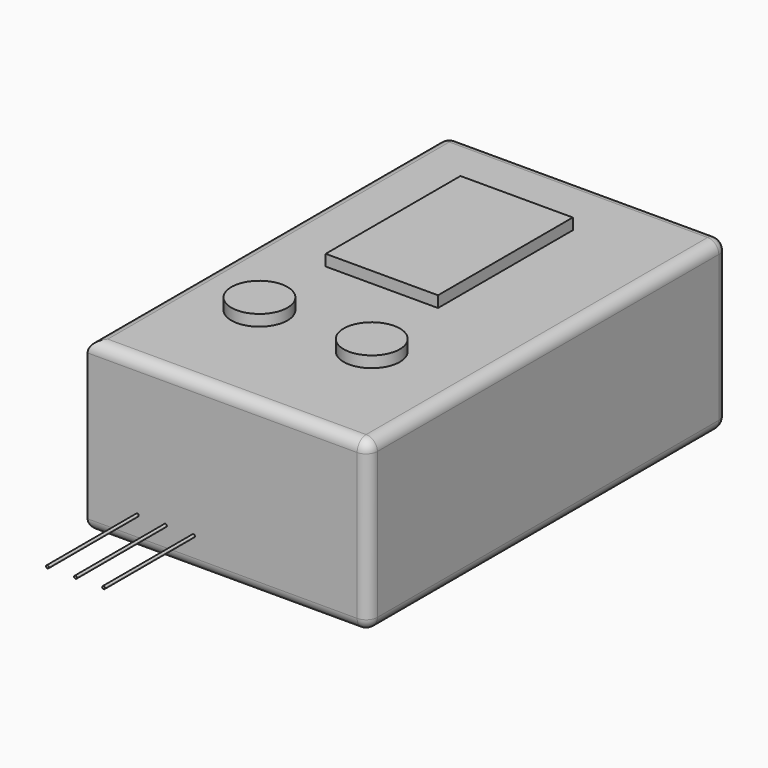
from build123d import *

# Parameters (mm, degrees)
F0_W     = 127
F0_H     = 76.2
F1_DEPTH = 203.2
F2_R     = 5.08
F3_R     = 0.635
F4_DEPTH = 50.8
F5_W     = 50.8
F5_H     = 76.2
F5_R     = 12.7
F6_DEPTH = 5.08


with BuildPart() as f1:
    # F0 (on Front) → F1 (new body)
    with BuildSketch(Plane.XZ):
        with Locations((63.5, 38.1)):
            Rectangle(F0_W, F0_H)
    extrude(amount=F1_DEPTH)

    # F2
    f2_edges = [f1.edges().sort_by_distance(p)[0] for p in [
        (63.5, -203.2, 76.2),
        (127, -101.6, 76.2),
        (127, -203.2, 38.1),
        (127, 0, 38.1),
        (127, -101.6, 0),
        (63.5, -203.2, 0),
        (63.5, 0, 0),
        (0, 0, 38.1),
        (0, -101.6, 0),
        (0, -101.6, 76.2),
        (63.5, 0, 76.2),
    ]]
    fillet(f2_edges, radius=F2_R)

    # F3 (on face) → F4 (join)
    with BuildSketch(Plane.XZ.offset(203.2)):
        with Locations((22.490209, 13.902469)):
            Circle(F3_R)
        with Locations((35.190209, 13.902469)):
            Circle(F3_R)
        with Locations((47.890209, 13.902469)):
            Circle(F3_R)
    extrude(amount=F4_DEPTH)

    # F5 (on face) → F6 (join)
    with BuildSketch(Plane.XY.offset(76.2)):
        with Locations((55.88, -68.58)):
            Rectangle(F5_W, F5_H)
        with Locations((33.02, -147.32)):
            Circle(F5_R)
        with Locations((83.82, -147.32)):
            Circle(F5_R)
    extrude(amount=F6_DEPTH)


solid = f1.part
